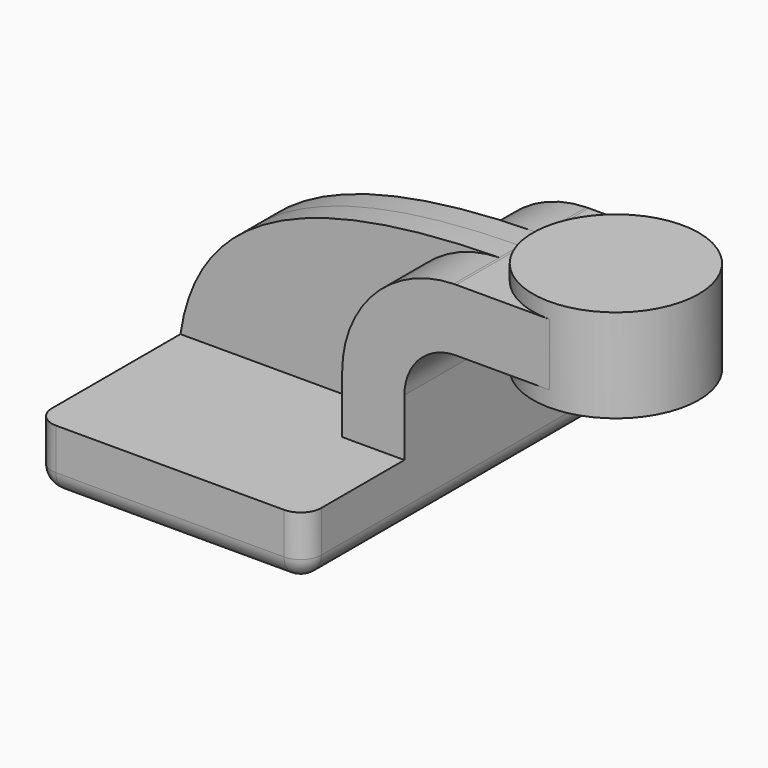
from build123d import *

# Parameters (mm, degrees)
F1_DEPTH = 63.5
F0_W     = 25.4
F0_H     = 19.0500000095
F2_DEPTH = 25.4
F3_DEPTH = 7.9375
F5_R     = 6.35


with BuildPart() as f1:
    # F0 (on Front) → F1 (new body, symmetric)
    with BuildSketch(Plane.XZ):
        Polygon((22.2249999905, 9.525), (-41.275, 9.525), (-41.275, -9.525), (41.275, -9.525), (41.275, 9.525), align=None)
    extrude(amount=F1_DEPTH, both=True)

    # F0 (on Front) → F2 (join, symmetric)
    with BuildSketch(Plane.XZ):
        with BuildLine():
            Line((22.2249999905, 27.0002), (22.2249999905, 9.525))
            Line((22.2249999905, 9.525), (41.275, 9.525))
            Line((41.275, 9.525), (41.275, 27.0002))
            ThreePointArc((41.275, 27.0002), (45.9246798487, 38.2255201513), (57.15, 42.8752))
            Line((57.15, 42.8752), (60.325, 42.8752))
            Line((60.325, 42.8752), (60.325, 61.9252000095))
            Line((60.325, 61.9252000095), (57.15, 61.9252000095))
            add(Edge.make_bspline(
                [(56.4015486097, 61.9171793393), (56.6504694702, 61.9201171261), (56.8999529418, 61.9227908011), (57.15, 61.9252000095)],
                knots=[111.0898267505, 111.0898267505, 111.0898267505, 111.0898267505, 111.504536168, 111.504536168, 111.504536168, 111.504536168], degree=3))
            ThreePointArc((56.4015486097, 61.9171793393), (32.191080848, 51.4298537107), (22.2249999905, 27.0002))
        make_face()
        with Locations((73.025, 52.4002000047)):
            Rectangle(F0_W, F0_H)
        with Locations((73.025, 52.4002000047)):
            Rectangle(F0_W, F0_H)
    extrude(amount=F2_DEPTH, both=True)

    # F0 (on Front) → F3 (join, symmetric)
    with BuildSketch(Plane.XZ):
        with BuildLine():
            add(Edge.make_bspline(
                [(-41.275, 9.525), (-36.5862940816, 41.3915538869), (-10.2778517333, 61.1302229482), (56.4015486097, 61.9171793393)],
                knots=[0, 0, 0, 0, 111.0898267505, 111.0898267505, 111.0898267505, 111.0898267505], degree=3))
            Line((-41.275, 9.525), (22.2249999905, 9.525))
            Line((22.2249999905, 9.525), (22.2249999905, 27.0002))
            ThreePointArc((22.2249999905, 27.0002), (32.191080848, 51.4298537107), (56.4015486097, 61.9171793393))
        make_face()
    extrude(amount=F3_DEPTH, both=True)

    # F5
    f5_edges = [f1.edges().sort_by_distance(p)[0] for p in [
        (0, -63.5, -9.525),
        (41.275, 0, -9.525),
        (0, 63.5, -9.525),
        (-41.275, 0, -9.525),
        (41.275, 63.5, 0),
        (-41.275, 63.5, 0),
        (-41.275, -63.5, 0),
        (41.275, -63.5, 0),
    ]]
    fillet(f5_edges, radius=F5_R)


with BuildPart() as f4:
    # F0 (on Front) → F4 (revolve)
    with BuildSketch(Plane.XZ):
        Polygon((85.725, 66.675), (85.725, 61.9252000095), (85.725, 42.8752), (85.725, 38.1), (111.125, 38.1), (111.125, 66.675), align=None)
    revolve(axis=Axis((85.725, 0, 52.4002000047), (0, 0, -1)))


solid = Compound([f1.part, f4.part])
